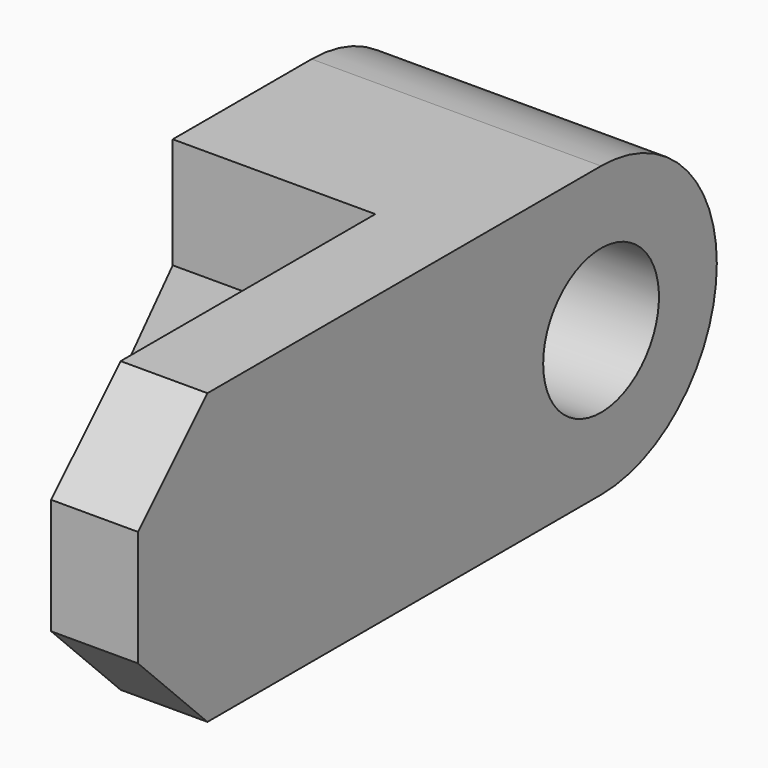
from build123d import *

# Parameters (mm, degrees)
F1_DEPTH = 228.6
F3_DEPTH = 533.4
F4_SIZE2 = 1066.800008
F4_SIZE  = 533.4
F5_R     = 190.5
F6_DEPTH = 762


with BuildPart() as f1:
    # F0 (on Right) → F1 (new body)
    with BuildSketch(Plane.YZ):
        with BuildLine():
            Line((762, 381), (-533.4, 381))
            Line((-533.4, 381), (-762, 152.4))
            Line((-762, 152.4), (-762, -152.4))
            Line((-762, -152.4), (-533.4, -381))
            Line((-533.4, -381), (762, -381))
            ThreePointArc((762, -381), (1143, 0), (762, 381))
        make_face()
    extrude(amount=-F1_DEPTH)

    # F2 (on face) → F3 (join)
    with BuildSketch(Plane(origin=(-228.6, 0, 0), x_dir=(0, -1, 0), z_dir=(-1, 0, 0))):
        with BuildLine():
            ThreePointArc((-762, 381), (-1143, 0), (-762, -381))
            Line((-762, -381), (-304.8, -381))
            Line((-304.8, -381), (-304.8, -88.9))
            Line((-304.8, -88.9), (762, -88.9))
            Line((762, -88.9), (762, 88.9))
            Line((762, 88.9), (-304.8, 88.9))
            Line((-304.8, 88.9), (-304.8, 381))
            Line((-304.8, 381), (-762, 381))
        make_face()
    extrude(amount=F3_DEPTH)

    # F4
    f4_edges = [f1.edges().sort_by_distance(p)[0] for p in [
        (-762, -762, 0),
    ]]
    chamfer(f4_edges, length=F4_SIZE, length2=F4_SIZE2)

    # F5 (on face) → F6 (cut)
    with BuildSketch(Plane(origin=(-762, 0, 0), x_dir=(0, -1, 0), z_dir=(-1, 0, 0))):
        with Locations((-762, 0)):
            Circle(F5_R)
    extrude(amount=-F6_DEPTH, mode=Mode.SUBTRACT)


solid = f1.part
